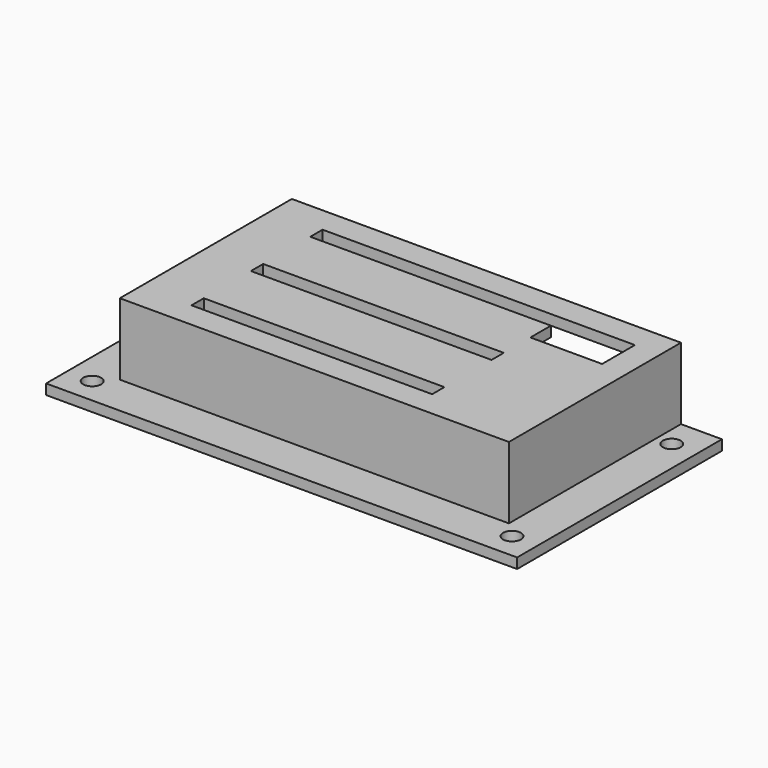
from build123d import *

# Parameters (mm, degrees)
SKETCH031_R   = 1.75
PAD017_DEPTH  = 2
PAD018_DEPTH  = 12
SKETCH033_W   = 76
SKETCH033_H   = 42
SKETCH033_W_2 = 47
SKETCH033_H_2 = 3
PAD019_DEPTH  = 2


with BuildPart() as part:
    # Sketch031 → Pad017 (new body)
    with BuildSketch(Plane.XY):
        Polygon((10, 0), (0, 0), (0, -50), (92, -50), (92, 0), (82, 0), (82, -40), (10, -40), align=None)
        with Locations((5, -45)):
            Circle(SKETCH031_R, mode=Mode.SUBTRACT)
        with Locations((87, -45)):
            Circle(SKETCH031_R, mode=Mode.SUBTRACT)
        with Locations((87, -6)):
            Circle(SKETCH031_R, mode=Mode.SUBTRACT)
        with Locations((5, -6)):
            Circle(SKETCH031_R, mode=Mode.SUBTRACT)
    extrude(amount=PAD017_DEPTH)

    # Sketch032 (on Face14 of Pad017) → Pad018 (join)
    with BuildSketch(Plane.XY.offset(2)):
        Polygon((10, 0), (10, -40), (82, -40), (82, 0), (84, 0), (84, -42), (8, -42), (8, 0), align=None)
    extrude(amount=PAD018_DEPTH)

    # Sketch033 (on Face18 of Pad018) → Pad019 (join)
    with BuildSketch(Plane.XY.offset(14)):
        with Locations((46, -21)):
            Rectangle(SKETCH033_W, SKETCH033_H)
        Polygon((18, -5), (74, -5), (79, -5), (79, -13), (65, -13), (65, -8), (18, -8), align=None, mode=Mode.SUBTRACT)
        with Locations((41.5, -21)):
            Rectangle(SKETCH033_W_2, SKETCH033_H_2, mode=Mode.SUBTRACT)
        with Locations((41.5, -35.5)):
            Rectangle(SKETCH033_W_2, SKETCH033_H_2, mode=Mode.SUBTRACT)
    extrude(amount=PAD019_DEPTH)


with BuildPart() as part_1:
    # Body015 placement: moved
    add(part.part.moved(Location((0, 125, 0))))


solid = part_1.part
